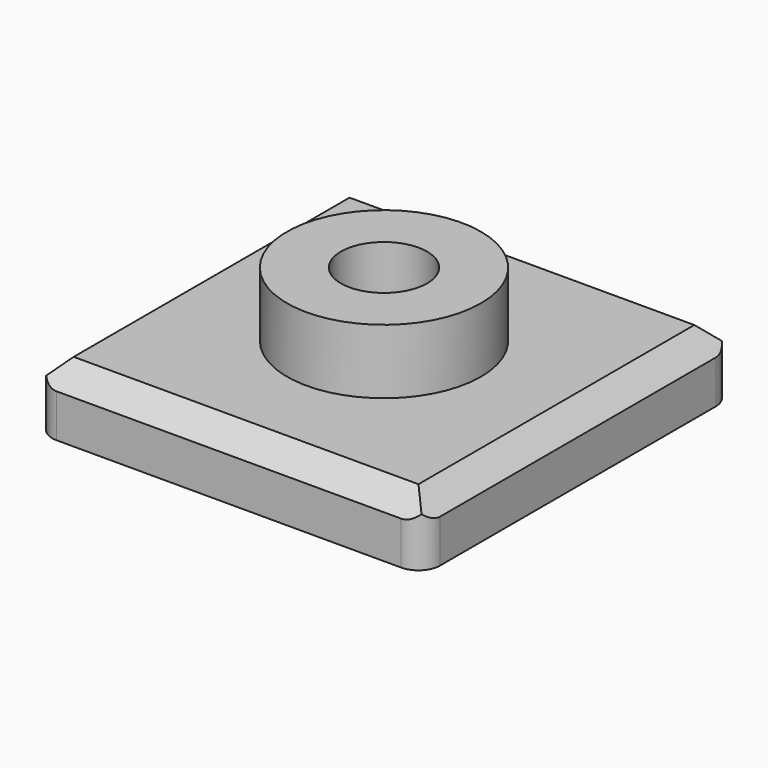
from build123d import *

# Parameters (mm, degrees)
SKETCH_W        = 18
SKETCH_H        = 18
PAD_DEPTH       = 6
SKETCH001_W     = 18
SKETCH001_H     = 18
SKETCH001_R     = 4.5
POCKET_DEPTH    = 3
SKETCH002_R     = 2
POCKET001_DEPTH = 6.001
CHAMFER_SIZE    = 1
FILLET_R        = 1
CHAMFER001_SIZE = 2


with BuildPart() as part:
    # Sketch → Pad (new body)
    with BuildSketch(Plane.XY):
        with Locations((9, 9)):
            Rectangle(SKETCH_W, SKETCH_H)
    extrude(amount=PAD_DEPTH)

    # Sketch001 (on Face6 of Pad) → Pocket (cut)
    with BuildSketch(Plane.XY.offset(6)):
        with Locations((9, 9)):
            Rectangle(SKETCH001_W, SKETCH001_H)
        with Locations((9, 9)):
            Circle(SKETCH001_R, mode=Mode.SUBTRACT)
    extrude(amount=-POCKET_DEPTH, mode=Mode.SUBTRACT)

    # Sketch002 (on Face8 of Pocket) → Pocket001 (cut, through all)
    with BuildSketch(Plane.XY.offset(6)):
        with Locations((9, 9)):
            Circle(SKETCH002_R)
    extrude(amount=-POCKET001_DEPTH, mode=Mode.SUBTRACT)

    # Chamfer
    chamfer_edges = [part.edges().sort_by_distance(p)[0] for p in [
        (9, 0, 3),
        (18, 9, 3),
        (9, 18, 3),
        (0, 9, 3),
    ]]
    chamfer(chamfer_edges, length=CHAMFER_SIZE)

    # Fillet
    fillet_edges = [part.edges().sort_by_distance(p)[0] for p in [
        (0, 18, 1),
        (0, 0, 1),
        (18, 18, 1),
        (18, 0, 1),
    ]]
    fillet(fillet_edges, radius=FILLET_R)

    # Chamfer001
    chamfer001_edges = [part.edges().sort_by_distance(p)[0] for p in [
        (7, 9, 0),
    ]]
    chamfer(chamfer001_edges, length=CHAMFER001_SIZE)


solid = part.part
